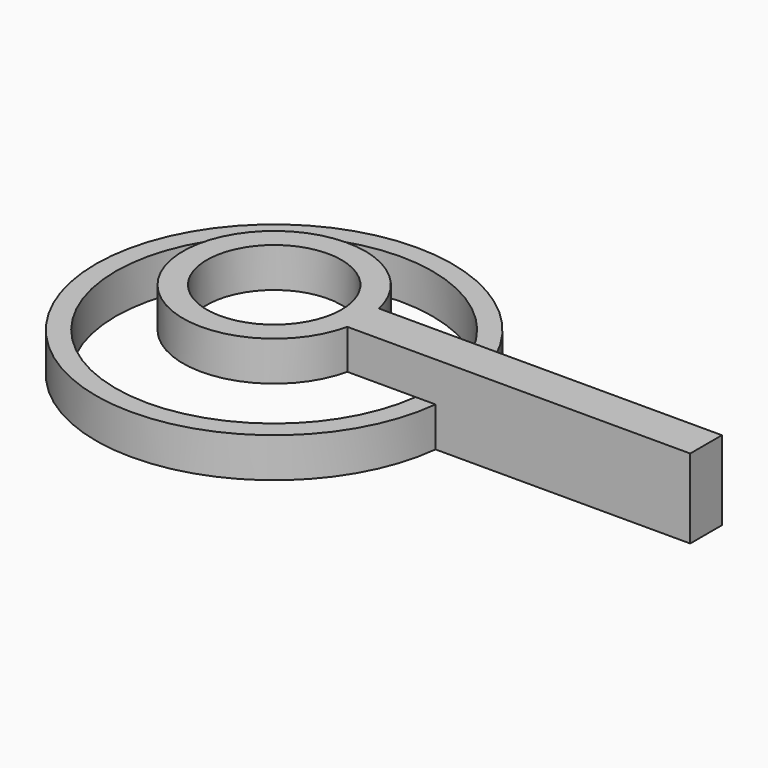
from build123d import *

# Parameters (mm, degrees)
F0_R     = 8.5
F1_DEPTH = 5
F3_DEPTH = 5


with BuildPart() as f1:
    # F0 (on Top) → F1 (new body)
    with BuildSketch(Plane.XY):
        with BuildLine():
            ThreePointArc((11.224972, 2.5), (11.431036, 1.257541), (11.5, 0))
            ThreePointArc((11.5, 0), (11.431036, -1.257541), (11.224972, -2.5))
            Line((11.224972, -2.5), (54.5, -2.5))
            Line((54.5, -2.5), (54.5, 0))
            Line((54.5, 0), (54.5, 2.5))
            Line((54.5, 2.5), (11.224972, 2.5))
        make_face()
        with BuildLine():
            ThreePointArc((11.224972, -2.5), (11.431036, -1.257541), (11.5, 0))
            ThreePointArc((11.5, 0), (11.431036, 1.257541), (11.224972, 2.5))
            ThreePointArc((11.224972, 2.5), (-11.5, 0), (11.224972, -2.5))
        make_face()
        Circle(F0_R, mode=Mode.SUBTRACT)
    extrude(amount=-F1_DEPTH)

    # F2 (on face) → F3 (join)
    with BuildSketch(Plane(origin=(0, 0, -5), x_dir=(1, 0, 0), z_dir=(0, 0, -1))):
        with BuildLine():
            Line((54.5, 2.5), (22.36068, 2.5))
            ThreePointArc((22.36068, 2.5), (22.465143, 1.25194), (22.5, 0))
            ThreePointArc((22.5, 0), (22.465143, -1.25194), (22.36068, -2.5))
            Line((22.36068, -2.5), (54.5, -2.5))
            Line((54.5, -2.5), (54.5, 2.5))
        make_face()
        with BuildLine():
            ThreePointArc((19.843135, 2.5), (19.960745, 1.252458), (20, 0))
            ThreePointArc((20, 0), (19.960745, -1.252458), (19.843135, -2.5))
            Line((19.843135, -2.5), (22.36068, -2.5))
            ThreePointArc((22.36068, -2.5), (22.465143, -1.25194), (22.5, 0))
            ThreePointArc((22.5, 0), (22.465143, 1.25194), (22.36068, 2.5))
            Line((22.36068, 2.5), (19.843135, 2.5))
        make_face()
        with BuildLine():
            ThreePointArc((19.843135, -2.5), (-20, 0), (19.843135, 2.5))
            Line((19.843135, 2.5), (22.36068, 2.5))
            ThreePointArc((22.36068, 2.5), (-22.5, 0), (22.36068, -2.5))
            Line((22.36068, -2.5), (19.843135, -2.5))
        make_face()
    extrude(amount=F3_DEPTH)


solid = f1.part
